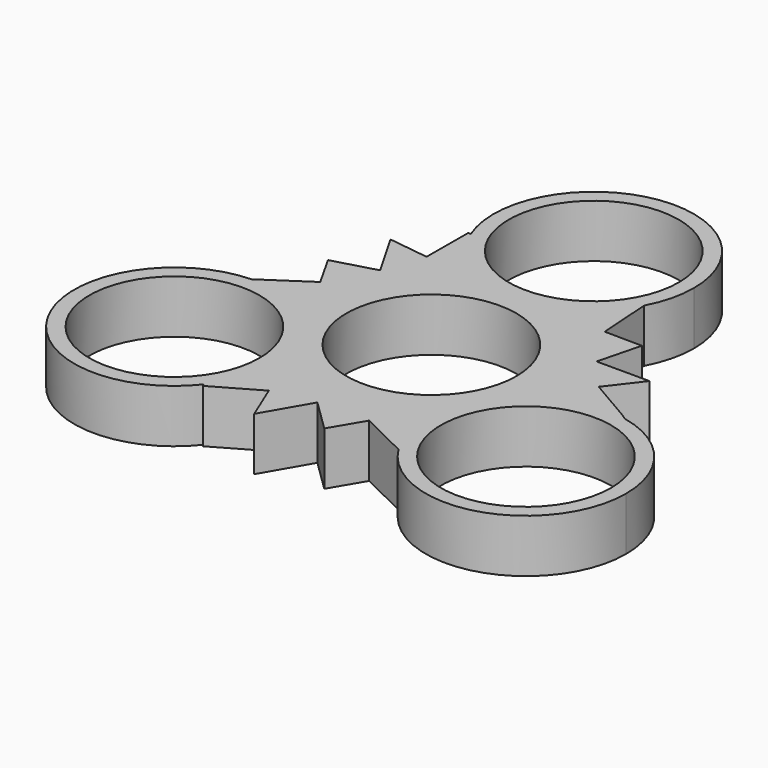
from build123d import *

# Parameters (mm, degrees)
F0_R     = 13.2
F0_R_2   = 11.2
F1_DEPTH = 7


with BuildPart() as f1:
    # F0 (on Top) → F1 (new body)
    with BuildSketch(Plane.XY):
        with BuildLine():
            ThreePointArc((11.632991, 20.493819), (-0.73006, 13.552093), (-12.250791, 21.816798))
            Line((-12.250791, 21.816798), (-12.596717, 21.818154))
            Line((-12.596717, 21.818154), (-12.623499, 14.987107))
            Line((-12.623499, 14.987107), (-17.952998, 15.692942))
            Line((-17.952998, 15.692942), (-14.466907, 9.654855))
            Line((-14.466907, 9.654855), (-20.082159, 8.081509))
            Line((-20.082159, 8.081509), (-17.656412, 3.77544))
            Line((-17.656412, 3.77544), (-23.564664, -0.172444))
            ThreePointArc((-23.564664, -0.172444), (-13.964283, -3.886835), (-9.950495, -13.365945))
            ThreePointArc((-9.950495, -13.365945), (-10.674874, -17.678585), (-12.768506, -21.517895))
            Line((-12.768506, -21.517895), (-12.596717, -21.818154))
            Line((-12.596717, -21.818154), (-6.667466, -18.425824))
            Line((-6.667466, -18.425824), (-4.613987, -23.394224))
            Line((-4.613987, -23.394224), (-1.127896, -17.356137))
            Line((-1.127896, -17.356137), (3.042287, -21.432415))
            Line((3.042287, -21.432415), (5.558579, -17.178622))
            Line((5.558579, -17.178622), (11.931673, -20.321376))
            ThreePointArc((11.931673, -20.321376), (12.324979, -5.812918), (25.805954, -0.435804))
            Line((25.805954, -0.435804), (25.193434, 0))
            Line((25.193434, 0), (19.290965, 3.438717))
            Line((19.290965, 3.438717), (22.566986, 7.701282))
            Line((22.566986, 7.701282), (15.594803, 7.701282))
            Line((15.594803, 7.701282), (17.039872, 13.350905))
            Line((17.039872, 13.350905), (12.097833, 13.403182))
            Line((12.097833, 13.403182), (11.632991, 20.493819))
        make_face()
        Circle(F0_R, mode=Mode.SUBTRACT)
        Circle(F0_R)
        Circle(F0_R_2, mode=Mode.SUBTRACT)
        with BuildLine():
            ThreePointArc((36.350495, -13.365945), (33.380159, -5.023644), (25.805954, -0.435804))
            ThreePointArc((25.805954, -0.435804), (12.324979, -5.812918), (11.931673, -20.321376))
            ThreePointArc((11.931673, -20.321376), (26.766539, -26.060992), (36.350495, -13.365945))
        make_face()
        with Locations((23.150495, -13.365945)):
            Circle(F0_R_2, mode=Mode.SUBTRACT)
        with BuildLine():
            ThreePointArc((-9.950495, -13.365945), (-13.964283, -3.886835), (-23.564664, -0.172444))
            ThreePointArc((-23.564664, -0.172444), (-34.929563, -19.323592), (-12.768506, -21.517895))
            ThreePointArc((-12.768506, -21.517895), (-10.674874, -17.678585), (-9.950495, -13.365945))
        make_face()
        with Locations((-23.150495, -13.365945)):
            Circle(F0_R_2, mode=Mode.SUBTRACT)
        with BuildLine():
            ThreePointArc((11.632991, 20.493819), (12.802255, 23.515951), (13.2, 26.731889))
            ThreePointArc((13.2, 26.731889), (-2.502954, 39.692414), (-12.250791, 21.816798))
            ThreePointArc((-12.250791, 21.816798), (-0.73006, 13.552093), (11.632991, 20.493819))
        make_face()
        with Locations((0, 26.731889)):
            Circle(F0_R_2, mode=Mode.SUBTRACT)
    extrude(amount=F1_DEPTH)


solid = f1.part
